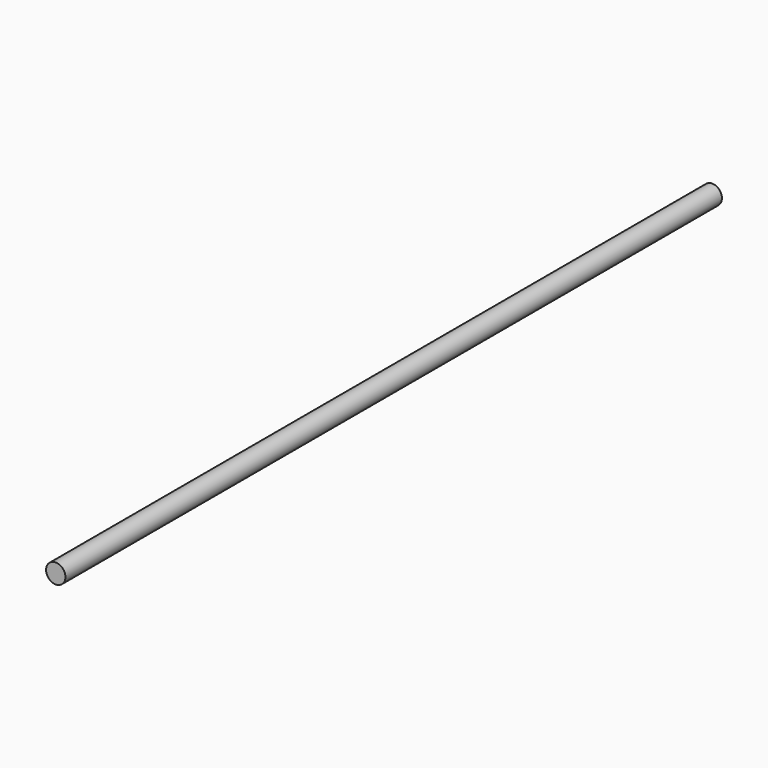
from build123d import *

# Parameters (mm, degrees)
F0_R     = 1.5
F0_R_2   = 0.364839353
F1_DEPTH = 127


with BuildPart() as f1:
    # F0 (on Front) → F1 (new body)
    with BuildSketch(Plane.XZ):
        with Locations((0, -0.4896833081)):
            Circle(F0_R)
        Circle(F0_R_2, mode=Mode.SUBTRACT)
        Circle(F0_R_2)
    extrude(amount=F1_DEPTH)


solid = f1.part
